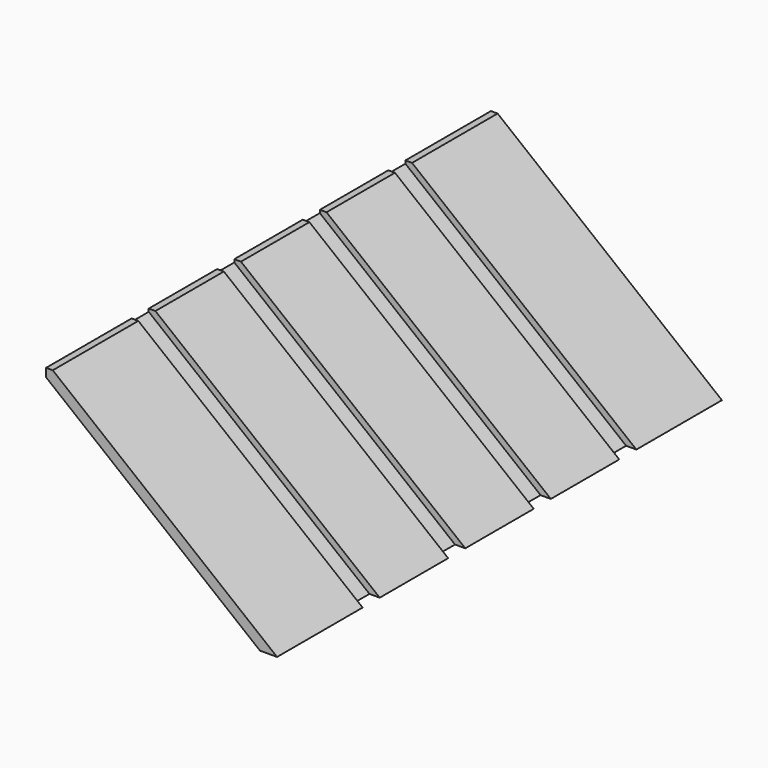
from build123d import *

# Parameters (mm, degrees)
F1_DEPTH = 330.2
F2_W     = 228.6
F2_H     = 12.7
F3_DEPTH = 3.81


with BuildPart() as f1:
    # F0 (on Front) → F1 (new body)
    with BuildSketch(Plane.XZ):
        Polygon((0, 106.55851694), (0, 101.6), (127, 0), (137.1649597269, 0), (3.966813552, 106.55851694), align=None)
    extrude(amount=F1_DEPTH)

    # F2 (on face) → F3 (cut)
    with BuildSketch(Plane(origin=(53.5277891617, 0, 66.9097364522), x_dir=(0.7808688094, 0, -0.6246950476), z_dir=(0.6246950476, 0, 0.7808688094))):
        with Locations((21.8194109839, -260.35)):
            Rectangle(F2_W, F2_H)
        with Locations((21.8194109839, -196.85)):
            Rectangle(F2_W, F2_H)
        with Locations((21.8194109839, -133.35)):
            Rectangle(F2_W, F2_H)
        with Locations((21.8194109839, -69.85)):
            Rectangle(F2_W, F2_H)
    extrude(amount=-F3_DEPTH, mode=Mode.SUBTRACT)


solid = f1.part
